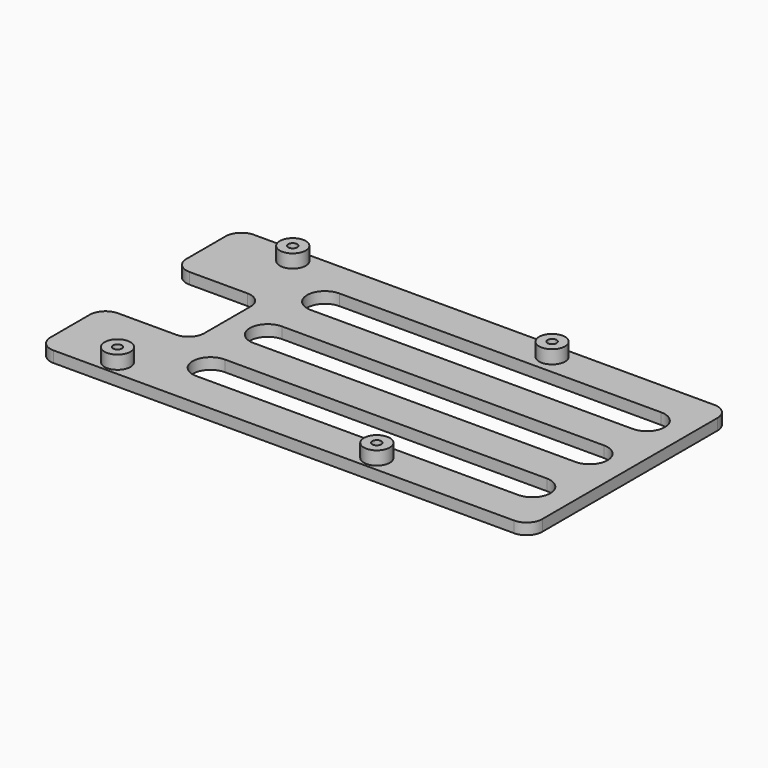
from build123d import *

# Parameters (mm, degrees)
SKETCH_W            = 110
SKETCH_H            = 28
PAD_DEPTH           = 2.5
SKETCH001_R         = 2.9
PAD001_DEPTH        = 3
SKETCH002_R         = 1
POCKET_DEPTH        = 5.501
POCKET001_DEPTH     = 2.501
LINEARPATTERN_COUNT = 2
LINEARPATTERN_PITCH = 16
SKETCH004_W         = 20
SKETCH004_H         = 10
POCKET002_DEPTH     = 2.501
FILLET_R            = 3.5


with BuildPart() as part:
    # Sketch → Pad (new body)
    with BuildSketch(Plane.XY):
        with Locations((55, 14)):
            Rectangle(SKETCH_W, SKETCH_H)
    extrude(amount=PAD_DEPTH)

    # Sketch001 (on Face6 of Pad) → Pad001 (join)
    with BuildSketch(Plane.XY.offset(2.5)):
        with Locations((15, 24.5)):
            Circle(SKETCH001_R)
        with Locations((73, 24.5)):
            Circle(SKETCH001_R)
    extrude(amount=PAD001_DEPTH)

    # Sketch002 (on Face9 of Pad001) → Pocket (cut, through all)
    with BuildSketch(Plane.XY.offset(5.5)):
        with Locations((15, 24.5)):
            Circle(SKETCH002_R)
        with Locations((73, 24.5)):
            Circle(SKETCH002_R)
    extrude(amount=-POCKET_DEPTH, mode=Mode.SUBTRACT)

    # Sketch003 (on Face5 of Pocket) → Pocket001 (cut, through all)
    with BuildSketch(Plane.XY.offset(2.5)):
        with BuildLine():
            ThreePointArc((29, 4), (25, 0), (29, -4))
            Line((29, -4), (101, -4))
            ThreePointArc((101, -4), (105, 0), (101, 4))
            Line((29, 4), (101, 4))
        make_face()
    pocket001 = extrude(amount=-POCKET001_DEPTH, mode=Mode.SUBTRACT)

    # LinearPattern: Pocket001 ×2
    with Locations(*[(0, i * LINEARPATTERN_PITCH, 0) for i in range(1, LINEARPATTERN_COUNT)]):
        add(pocket001, mode=Mode.SUBTRACT)

    # Sketch004 (on Face4 of LinearPattern) → Pocket002 (cut, through all)
    with BuildSketch(Plane.XY.offset(2.5)):
        with Locations((10, 5)):
            Rectangle(SKETCH004_W, SKETCH004_H)
    extrude(amount=-POCKET002_DEPTH, mode=Mode.SUBTRACT)

    # Fillet
    fillet_edges = [part.edges().sort_by_distance(p)[0] for p in [
        (20, 10, 1.25),
        (0, 10, 1.25),
        (0, 28, 1.25),
        (110, 28, 1.25),
    ]]
    fillet(fillet_edges, radius=FILLET_R)

    # Mirrored: part across XZ


with BuildPart() as part_1:
    add(part.part)
    add(part.part.mirror(Plane.XZ))


solid = part_1.part
